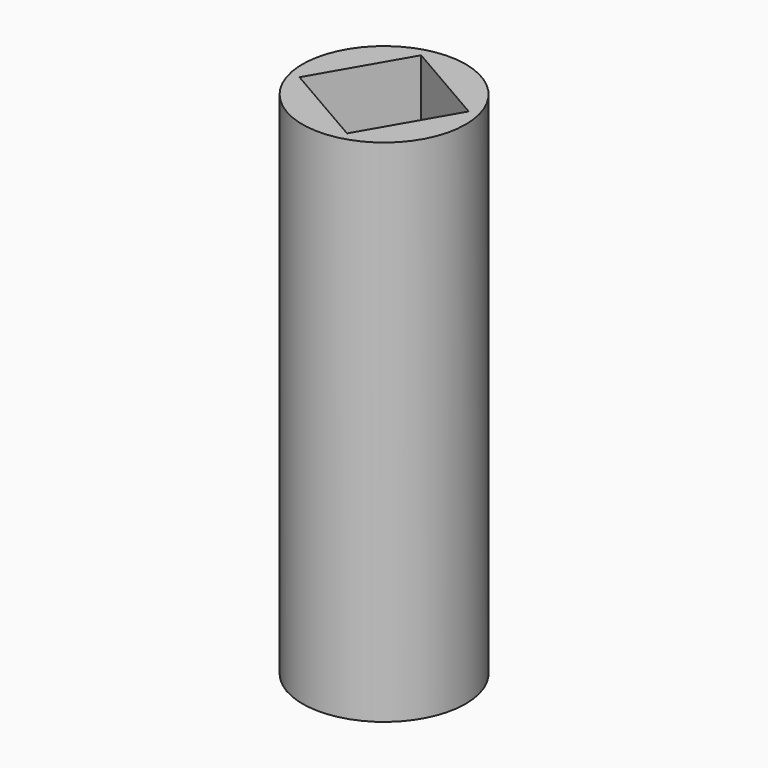
from build123d import *

# Parameters (mm, degrees)
SKETCH_R     = 8
PAD_DEPTH    = 40
SKETCH001_R  = 8
PAD001_DEPTH = 10


with BuildPart() as part:
    # Sketch → Pad (new body)
    with BuildSketch(Plane.XY):
        Circle(SKETCH_R)
        Polygon((5, -2.886751), (5, 2.886751), (0, 5.773503), (-5, 2.886751), (-5, -2.886751), (0, -5.773503), align=None, mode=Mode.SUBTRACT)
    extrude(amount=PAD_DEPTH)

    # Sketch001 → Pad001 (join)
    with BuildSketch(Plane.XY.offset(40)):
        Circle(SKETCH001_R)
        Polygon((-1.830127, 6.830127), (-6.830127, -1.830127), (1.830127, -6.830127), (6.830127, 1.830127), align=None, mode=Mode.SUBTRACT)
    extrude(amount=PAD001_DEPTH)


solid = part.part
